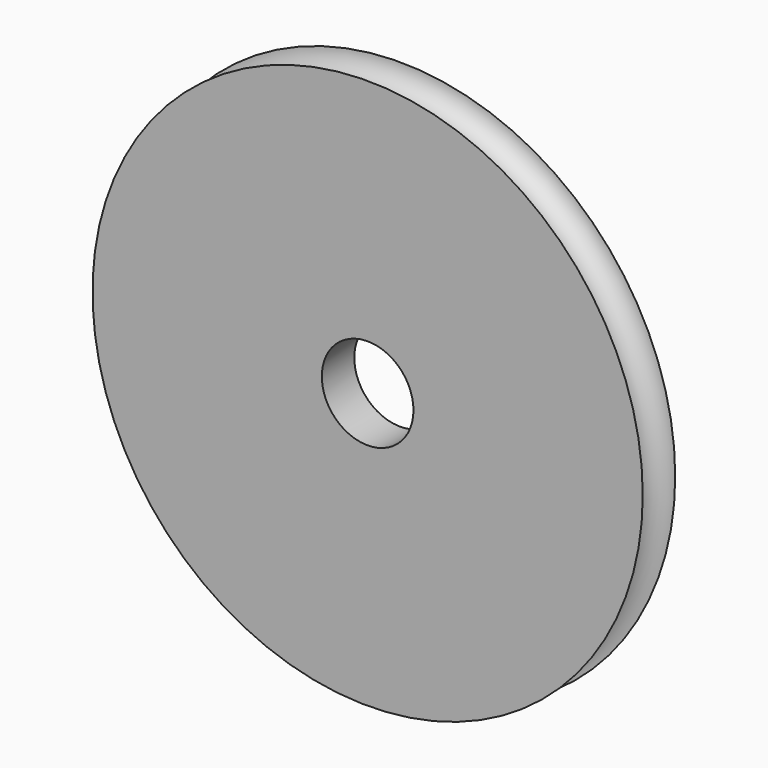
from build123d import *

# Parameters (mm, degrees)
F2_R     = 12.700374
F3_DEPTH = 254


with BuildPart() as f1:
    # F0 (on Top) → F1 (revolve)
    with BuildSketch(Plane.XY):
        with BuildLine():
            Line((76.23443, 0), (0, 0))
            Line((0, 0), (0, -11.246386))
            Line((0, -11.246386), (76.23443, -11.246386))
            ThreePointArc((76.23443, -11.246386), (70.611237, -5.623193), (76.23443, 0))
        make_face()
    revolve(axis=Axis((0, -5.623193, 0), (0, -1, 0)))

    # F2 (on face) → F3 (cut)
    with BuildSketch(Plane.XZ.offset(11.246386)):
        Circle(F2_R)
    extrude(amount=-F3_DEPTH, mode=Mode.SUBTRACT)


solid = f1.part
